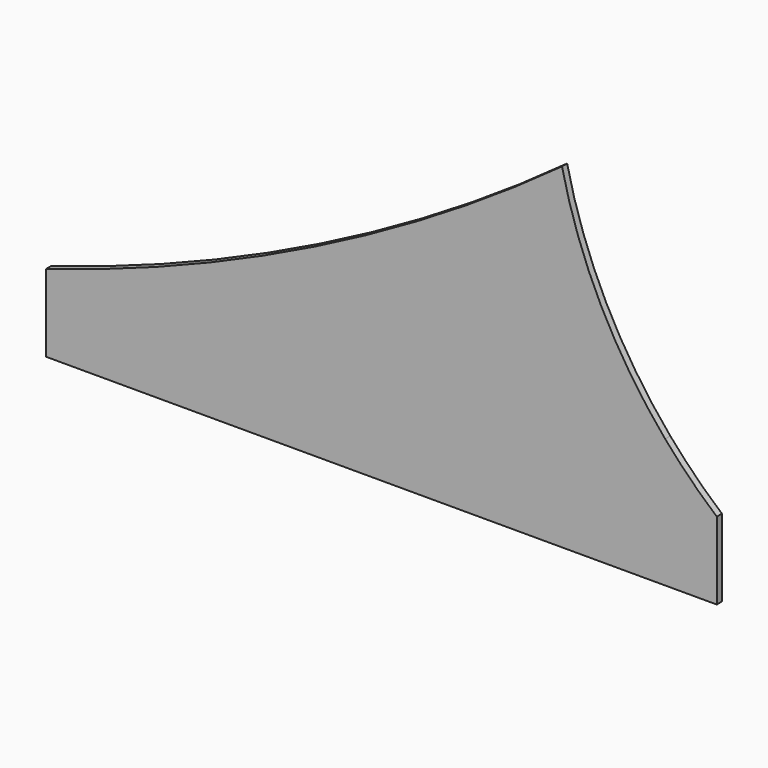
from build123d import *

# Parameters (mm, degrees)
F0_W     = 101.6
F0_H     = 50.8
F0_W_2   = 304.8
F1_DEPTH = 6.35


with BuildPart() as f1:
    # F0 (on Front) → F1 (new body)
    with BuildSketch(Plane.XZ):
        with BuildLine():
            ThreePointArc((143.7917344383, 50.8), (72.4707395321, 23.7727975007), (0, 0))
            Line((0, 0), (203.2, 0))
            Line((203.2, 0), (203.2, 50.8))
            Line((203.2, 50.8), (143.7917344383, 50.8))
        make_face()
        with BuildLine():
            ThreePointArc((203.2, 76.2), (173.6175942843, 63.2152915821), (143.7917344383, 50.8))
            Line((143.7917344383, 50.8), (203.2, 50.8))
            Line((203.2, 50.8), (203.2, 76.2))
        make_face()
        with BuildLine():
            Line((203.2, 76.2), (203.2, 50.8))
            Line((203.2, 50.8), (508, 50.8))
            Line((508, 50.8), (508, 254))
            ThreePointArc((508, 254), (360.2660576084, 157.1010440998), (203.2, 76.2))
        make_face()
        with BuildLine():
            Line((508, 254), (508, 50.8))
            Line((508, 50.8), (609.6, 50.8))
            ThreePointArc((609.6, 50.8), (546.2924684372, 146.1462342186), (508, 254))
        make_face()
        with Locations((558.8, 25.4)):
            Rectangle(F0_W, F0_H)
        with Locations((355.6, 25.4)):
            Rectangle(F0_W_2, F0_H)
        with BuildLine():
            Line((609.6, 50.8), (609.6, 0))
            Line((609.6, 0), (660.4, 0))
            ThreePointArc((660.4, 0), (634.0245178157, 24.4245178157), (609.6, 50.8))
        make_face()
        Polygon((203.2, 0), (0, 0), (0, -76.2), (660.4, -76.2), (660.4, 0), (609.6, 0), (508, 0), align=None)
    extrude(amount=F1_DEPTH)


solid = f1.part
